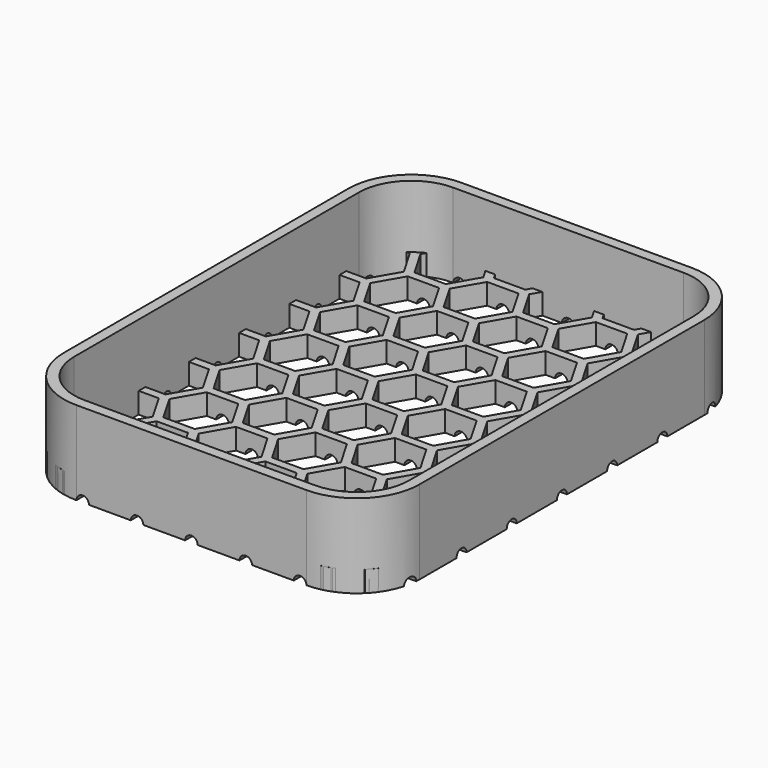
from build123d import *

# Parameters (mm, degrees)
F1_DEPTH      = 5
F3_DEPTH      = 25
F4_DEPTH      = 20
F5_T          = -2.5
F6_R          = 1.5
F7_DEPTH      = 80
F7_DEPTH_BACK = 80
F8_R          = 1.5
F9_DEPTH      = 60
F9_DEPTH_BACK = 60


with BuildPart() as f1:
    # F0 (on Top) → F1 (new body)
    with BuildSketch(Plane.XY):
        with BuildLine():
            ThreePointArc((42.5, 42.5), (38.1066017178, 53.1066017178), (27.5, 57.5))
            Line((27.5, 57.5), (-27.5, 57.5))
            ThreePointArc((-27.5, 57.5), (-38.1066017178, 53.1066017178), (-42.5, 42.5))
            Line((-42.5, 42.5), (-42.5, -42.5))
            ThreePointArc((-42.5, -42.5), (-38.1066017178, -53.1066017178), (-27.5, -57.5))
            Line((-27.5, -57.5), (27.5, -57.5))
            ThreePointArc((27.5, -57.5), (38.1066017178, -53.1066017178), (42.5, -42.5))
            Line((42.5, -42.5), (42.5, 42.5))
        make_face()
    extrude(amount=F1_DEPTH)

    # F2 (on Top) → F3 (cut)
    with BuildSketch(Plane.XY):
        Polygon((3.7499989252, -58.7181099653), (7.4999989252, -52.2229194369), (3.7499989252, -45.7277289086), (-3.7500010748, -45.7277289086), (-7.5000010748, -52.2229194369), (-3.7500010748, -58.7181099653), align=None)
        Polygon((-9.2320518824, -53.2229194369), (-16.7320518824, -53.2229194369), (-20.4820518824, -59.7181099653), (-16.7320518824, -66.2133004937), (-9.2320518824, -66.2133004937), (-5.4820518824, -59.7181099653), align=None)
        Polygon((9.2320497327, -53.2229194369), (5.4820497327, -59.7181099653), (9.2320497327, -66.2133004937), (16.7320497327, -66.2133004937), (20.4820497327, -59.7181099653), (16.7320497327, -53.2229194369), align=None)
        Polygon((33.4640989252, -52.2229194369), (29.7140989252, -45.7277289086), (22.2140989252, -45.7277289086), (18.4640989252, -52.2229194369), (22.2140989252, -58.7181099653), (29.7140989252, -58.7181099653), align=None)
        Polygon((35.1961497327, -66.2133004937), (42.6961497327, -66.2133004937), (46.4461497327, -59.7181099653), (42.6961497327, -53.2229194369), (35.1961497327, -53.2229194369), (31.4461497327, -59.7181099653), align=None)
        Polygon((-42.6961518824, -66.2133004937), (-35.1961518824, -66.2133004937), (-31.4461518824, -59.7181099653), (-35.1961518824, -53.2229194369), (-42.6961518824, -53.2229194369), (-46.4461518824, -59.7181099653), align=None)
        Polygon((-33.4641010748, -52.2229194369), (-29.7141010748, -58.7181099653), (-22.2141010748, -58.7181099653), (-18.4641010748, -52.2229194369), (-22.2141010748, -45.7277289086), (-29.7141010748, -45.7277289086), align=None)
        Polygon((3.7499989252, -30.7373489086), (-3.7500010748, -30.7373489086), (-7.5000010748, -37.2325394369), (-3.7500010748, -43.7277299653), (3.7499989252, -43.7277299653), (7.4999989252, -37.2325394369), align=None)
        Polygon((-16.7320518824, -38.2325394369), (-20.4820518824, -44.7277299653), (-16.7320518824, -51.2229204937), (-9.2320518824, -51.2229204937), (-5.4820518824, -44.7277299653), (-9.2320518824, -38.2325394369), align=None)
        Polygon((42.6961497327, -38.2325394369), (35.1961497327, -38.2325394369), (31.4461497327, -44.7277299653), (35.1961497327, -51.2229204937), (42.6961497327, -51.2229204937), (46.4461497327, -44.7277299653), align=None)
        Polygon((16.7320497327, -38.2325394369), (9.2320497327, -38.2325394369), (5.4820497327, -44.7277299653), (9.2320497327, -51.2229204937), (16.7320497327, -51.2229204937), (20.4820497327, -44.7277299653), align=None)
        Polygon((29.7140989252, -43.7277299653), (33.4640989252, -37.2325394369), (29.7140989252, -30.7373489086), (22.2140989252, -30.7373489086), (18.4640989252, -37.2325394369), (22.2140989252, -43.7277299653), align=None)
        Polygon((-29.7141010748, -43.7277299653), (-22.2141010748, -43.7277299653), (-18.4641010748, -37.2325394369), (-22.2141010748, -30.7373489086), (-29.7141010748, -30.7373489086), (-33.4641010748, -37.2325394369), align=None)
        Polygon((-35.1961518824, -51.2229204937), (-31.4461518824, -44.7277299653), (-35.1961518824, -38.2325394369), (-42.6961518824, -38.2325394369), (-46.4461518824, -44.7277299653), (-42.6961518824, -51.2229204937), align=None)
        Polygon((3.7499989252, -15.7469689086), (-3.7500010748, -15.7469689086), (-7.5000010748, -22.2421594369), (-3.7500010748, -28.7373499653), (3.7499989252, -28.7373499653), (7.4999989252, -22.2421594369), align=None)
        Polygon((-16.7320518824, -23.2421594369), (-20.4820518824, -29.7373499653), (-16.7320518824, -36.2325404937), (-9.2320518824, -36.2325404937), (-5.4820518824, -29.7373499653), (-9.2320518824, -23.2421594369), align=None)
        Polygon((42.6961497327, -23.2421594369), (35.1961497327, -23.2421594369), (31.4461497327, -29.7373499653), (35.1961497327, -36.2325404937), (42.6961497327, -36.2325404937), (46.4461497327, -29.7373499653), align=None)
        Polygon((16.7320497327, -23.2421594369), (9.2320497327, -23.2421594369), (5.4820497327, -29.7373499653), (9.2320497327, -36.2325404937), (16.7320497327, -36.2325404937), (20.4820497327, -29.7373499653), align=None)
        Polygon((29.7140989252, -28.7373499653), (33.4640989252, -22.2421594369), (29.7140989252, -15.7469689086), (22.2140989252, -15.7469689086), (18.4640989252, -22.2421594369), (22.2140989252, -28.7373499653), align=None)
        Polygon((-29.7141010748, -28.7373499653), (-22.2141010748, -28.7373499653), (-18.4641010748, -22.2421594369), (-22.2141010748, -15.7469689086), (-29.7141010748, -15.7469689086), (-33.4641010748, -22.2421594369), align=None)
        Polygon((-35.1961518824, -36.2325404937), (-31.4461518824, -29.7373499653), (-35.1961518824, -23.2421594369), (-42.6961518824, -23.2421594369), (-46.4461518824, -29.7373499653), (-42.6961518824, -36.2325404937), align=None)
        Polygon((3.7499989252, -0.7565889086), (-3.7500010748, -0.7565889086), (-7.5000010748, -7.2517794369), (-3.7500010748, -13.7469699653), (3.7499989252, -13.7469699653), (7.4999989252, -7.2517794369), align=None)
        Polygon((-16.7320518824, -8.2517794369), (-20.4820518824, -14.7469699653), (-16.7320518824, -21.2421604937), (-9.2320518824, -21.2421604937), (-5.4820518824, -14.7469699653), (-9.2320518824, -8.2517794369), align=None)
        Polygon((42.6961497327, -8.2517794369), (35.1961497327, -8.2517794369), (31.4461497327, -14.7469699653), (35.1961497327, -21.2421604937), (42.6961497327, -21.2421604937), (46.4461497327, -14.7469699653), align=None)
        Polygon((16.7320497327, -8.2517794369), (9.2320497327, -8.2517794369), (5.4820497327, -14.7469699653), (9.2320497327, -21.2421604937), (16.7320497327, -21.2421604937), (20.4820497327, -14.7469699653), align=None)
        Polygon((29.7140989252, -13.7469699653), (33.4640989252, -7.2517794369), (29.7140989252, -0.7565889086), (22.2140989252, -0.7565889086), (18.4640989252, -7.2517794369), (22.2140989252, -13.7469699653), align=None)
        Polygon((-29.7141010748, -13.7469699653), (-22.2141010748, -13.7469699653), (-18.4641010748, -7.2517794369), (-22.2141010748, -0.7565889086), (-29.7141010748, -0.7565889086), (-33.4641010748, -7.2517794369), align=None)
        Polygon((-35.1961518824, -21.2421604937), (-31.4461518824, -14.7469699653), (-35.1961518824, -8.2517794369), (-42.6961518824, -8.2517794369), (-46.4461518824, -14.7469699653), (-42.6961518824, -21.2421604937), align=None)
        Polygon((3.7499989252, 14.2337910914), (-3.7500010748, 14.2337910914), (-7.5000010748, 7.7386005631), (-3.7500010748, 1.2434100347), (3.7499989252, 1.2434100347), (7.4999989252, 7.7386005631), align=None)
        Polygon((-16.7320518824, 6.7386005631), (-20.4820518824, 0.2434100347), (-16.7320518824, -6.2517804937), (-9.2320518824, -6.2517804937), (-5.4820518824, 0.2434100347), (-9.2320518824, 6.7386005631), align=None)
        Polygon((42.6961497327, 6.7386005631), (35.1961497327, 6.7386005631), (31.4461497327, 0.2434100347), (35.1961497327, -6.2517804937), (42.6961497327, -6.2517804937), (46.4461497327, 0.2434100347), align=None)
        Polygon((16.7320497327, 6.7386005631), (9.2320497327, 6.7386005631), (5.4820497327, 0.2434100347), (9.2320497327, -6.2517804937), (16.7320497327, -6.2517804937), (20.4820497327, 0.2434100347), align=None)
        Polygon((29.7140989252, 1.2434100347), (33.4640989252, 7.7386005631), (29.7140989252, 14.2337910914), (22.2140989252, 14.2337910914), (18.4640989252, 7.7386005631), (22.2140989252, 1.2434100347), align=None)
        Polygon((-29.7141010748, 1.2434100347), (-22.2141010748, 1.2434100347), (-18.4641010748, 7.7386005631), (-22.2141010748, 14.2337910914), (-29.7141010748, 14.2337910914), (-33.4641010748, 7.7386005631), align=None)
        Polygon((-35.1961518824, -6.2517804937), (-31.4461518824, 0.2434100347), (-35.1961518824, 6.7386005631), (-42.6961518824, 6.7386005631), (-46.4461518824, 0.2434100347), (-42.6961518824, -6.2517804937), align=None)
        Polygon((3.7499989252, 29.2241710914), (-3.7500010748, 29.2241710914), (-7.5000010748, 22.7289805631), (-3.7500010748, 16.2337900347), (3.7499989252, 16.2337900347), (7.4999989252, 22.7289805631), align=None)
        Polygon((-16.7320518824, 21.7289805631), (-20.4820518824, 15.2337900347), (-16.7320518824, 8.7385995063), (-9.2320518824, 8.7385995063), (-5.4820518824, 15.2337900347), (-9.2320518824, 21.7289805631), align=None)
        Polygon((42.6961497327, 21.7289805631), (35.1961497327, 21.7289805631), (31.4461497327, 15.2337900347), (35.1961497327, 8.7385995063), (42.6961497327, 8.7385995063), (46.4461497327, 15.2337900347), align=None)
        Polygon((16.7320497327, 21.7289805631), (9.2320497327, 21.7289805631), (5.4820497327, 15.2337900347), (9.2320497327, 8.7385995063), (16.7320497327, 8.7385995063), (20.4820497327, 15.2337900347), align=None)
        Polygon((29.7140989252, 16.2337900347), (33.4640989252, 22.7289805631), (29.7140989252, 29.2241710914), (22.2140989252, 29.2241710914), (18.4640989252, 22.7289805631), (22.2140989252, 16.2337900347), align=None)
        Polygon((-29.7141010748, 16.2337900347), (-22.2141010748, 16.2337900347), (-18.4641010748, 22.7289805631), (-22.2141010748, 29.2241710914), (-29.7141010748, 29.2241710914), (-33.4641010748, 22.7289805631), align=None)
        Polygon((-35.1961518824, 8.7385995063), (-31.4461518824, 15.2337900347), (-35.1961518824, 21.7289805631), (-42.6961518824, 21.7289805631), (-46.4461518824, 15.2337900347), (-42.6961518824, 8.7385995063), align=None)
        Polygon((3.7499989252, 44.2145510914), (-3.7500010748, 44.2145510914), (-7.5000010748, 37.7193605631), (-3.7500010748, 31.2241700347), (3.7499989252, 31.2241700347), (7.4999989252, 37.7193605631), align=None)
        Polygon((-16.7320518824, 36.7193605631), (-20.4820518824, 30.2241700347), (-16.7320518824, 23.7289795063), (-9.2320518824, 23.7289795063), (-5.4820518824, 30.2241700347), (-9.2320518824, 36.7193605631), align=None)
        Polygon((42.6961497327, 36.7193605631), (35.1961497327, 36.7193605631), (31.4461497327, 30.2241700347), (35.1961497327, 23.7289795063), (42.6961497327, 23.7289795063), (46.4461497327, 30.2241700347), align=None)
        Polygon((16.7320497327, 36.7193605631), (9.2320497327, 36.7193605631), (5.4820497327, 30.2241700347), (9.2320497327, 23.7289795063), (16.7320497327, 23.7289795063), (20.4820497327, 30.2241700347), align=None)
        Polygon((29.7140989252, 31.2241700347), (33.4640989252, 37.7193605631), (29.7140989252, 44.2145510914), (22.2140989252, 44.2145510914), (18.4640989252, 37.7193605631), (22.2140989252, 31.2241700347), align=None)
        Polygon((-29.7141010748, 31.2241700347), (-22.2141010748, 31.2241700347), (-18.4641010748, 37.7193605631), (-22.2141010748, 44.2145510914), (-29.7141010748, 44.2145510914), (-33.4641010748, 37.7193605631), align=None)
        Polygon((-35.1961518824, 23.7289795063), (-31.4461518824, 30.2241700347), (-35.1961518824, 36.7193605631), (-42.6961518824, 36.7193605631), (-46.4461518824, 30.2241700347), (-42.6961518824, 23.7289795063), align=None)
        Polygon((3.7499989252, 59.2049310914), (-3.7500010748, 59.2049310914), (-7.5000010748, 52.7097405631), (-3.7500010748, 46.2145500347), (3.7499989252, 46.2145500347), (7.4999989252, 52.7097405631), align=None)
        Polygon((-16.7320518824, 51.7097405631), (-20.4820518824, 45.2145500347), (-16.7320518824, 38.7193595063), (-9.2320518824, 38.7193595063), (-5.4820518824, 45.2145500347), (-9.2320518824, 51.7097405631), align=None)
        Polygon((42.6961497327, 51.7097405631), (35.1961497327, 51.7097405631), (31.4461497327, 45.2145500347), (35.1961497327, 38.7193595063), (42.6961497327, 38.7193595063), (46.4461497327, 45.2145500347), align=None)
        Polygon((16.7320497327, 51.7097405631), (9.2320497327, 51.7097405631), (5.4820497327, 45.2145500347), (9.2320497327, 38.7193595063), (16.7320497327, 38.7193595063), (20.4820497327, 45.2145500347), align=None)
        Polygon((29.7140989252, 46.2145500347), (33.4640989252, 52.7097405631), (29.7140989252, 59.2049310914), (22.2140989252, 59.2049310914), (18.4640989252, 52.7097405631), (22.2140989252, 46.2145500347), align=None)
        Polygon((-29.7141010748, 46.2145500347), (-22.2141010748, 46.2145500347), (-18.4641010748, 52.7097405631), (-22.2141010748, 59.2049310914), (-29.7141010748, 59.2049310914), (-33.4641010748, 52.7097405631), align=None)
        Polygon((-35.1961518824, 38.7193595063), (-31.4461518824, 45.2145500347), (-35.1961518824, 51.7097405631), (-42.6961518824, 51.7097405631), (-46.4461518824, 45.2145500347), (-42.6961518824, 38.7193595063), align=None)
        Polygon((3.7499989252, 74.1953110914), (-3.7500010748, 74.1953110914), (-7.5000010748, 67.7001205631), (-3.7500010748, 61.2049300347), (3.7499989252, 61.2049300347), (7.4999989252, 67.7001205631), align=None)
        Polygon((-16.7320518824, 66.7001205631), (-20.4820518824, 60.2049300347), (-16.7320518824, 53.7097395063), (-9.2320518824, 53.7097395063), (-5.4820518824, 60.2049300347), (-9.2320518824, 66.7001205631), align=None)
        Polygon((42.6961497327, 66.7001205631), (35.1961497327, 66.7001205631), (31.4461497327, 60.2049300347), (35.1961497327, 53.7097395063), (42.6961497327, 53.7097395063), (46.4461497327, 60.2049300347), align=None)
        Polygon((16.7320497327, 66.7001205631), (9.2320497327, 66.7001205631), (5.4820497327, 60.2049300347), (9.2320497327, 53.7097395063), (16.7320497327, 53.7097395063), (20.4820497327, 60.2049300347), align=None)
        Polygon((29.7140989252, 61.2049300347), (33.4640989252, 67.7001205631), (29.7140989252, 74.1953110914), (22.2140989252, 74.1953110914), (18.4640989252, 67.7001205631), (22.2140989252, 61.2049300347), align=None)
        Polygon((-29.7141010748, 61.2049300347), (-22.2141010748, 61.2049300347), (-18.4641010748, 67.7001205631), (-22.2141010748, 74.1953110914), (-29.7141010748, 74.1953110914), (-33.4641010748, 67.7001205631), align=None)
        Polygon((-35.1961518824, 53.7097395063), (-31.4461518824, 60.2049300347), (-35.1961518824, 66.7001205631), (-42.6961518824, 66.7001205631), (-46.4461518824, 60.2049300347), (-42.6961518824, 53.7097395063), align=None)
    extrude(amount=F3_DEPTH, mode=Mode.SUBTRACT)


with BuildPart() as f4:
    # F0 (on Top) → F4 (new body)
    with BuildSketch(Plane.XY):
        with BuildLine():
            ThreePointArc((42.5, 42.5), (38.1066017178, 53.1066017178), (27.5, 57.5))
            Line((27.5, 57.5), (-27.5, 57.5))
            ThreePointArc((-27.5, 57.5), (-38.1066017178, 53.1066017178), (-42.5, 42.5))
            Line((-42.5, 42.5), (-42.5, -42.5))
            ThreePointArc((-42.5, -42.5), (-38.1066017178, -53.1066017178), (-27.5, -57.5))
            Line((-27.5, -57.5), (27.5, -57.5))
            ThreePointArc((27.5, -57.5), (38.1066017178, -53.1066017178), (42.5, -42.5))
            Line((42.5, -42.5), (42.5, 42.5))
        make_face()
    extrude(amount=F4_DEPTH)

    # F5
    f5_openings = [f4.faces().sort_by_distance(p)[0] for p in [
        (0, 0, 20),
        (0, 0, 0),
    ]]
    offset(amount=F5_T, openings=f5_openings)


with BuildPart() as f7_tool:
    # F6 (on Front) → F7 (new body, two sides)
    with BuildSketch(Plane.XZ) as f7_sk:
        Circle(F6_R)
        with Locations((12.98205, 0)):
            Circle(F6_R)
        with Locations((-12.98205, 0)):
            Circle(F6_R)
        with Locations((-25.9641, 0)):
            Circle(F6_R)
        with Locations((25.9641, 0)):
            Circle(F6_R)
    extrude(amount=-F7_DEPTH)
    extrude(f7_sk.sketch, amount=F7_DEPTH_BACK)


with BuildPart() as f1_1:
    add(f1.part)

    # F7: cut by f7_tool
    add(f7_tool.part, mode=Mode.SUBTRACT)


with BuildPart() as f4_1:
    add(f4.part)

    # F7: cut by f7_tool
    add(f7_tool.part, mode=Mode.SUBTRACT)

    # F8 (on Right) → F9 (cut, two sides)
    with BuildSketch(Plane.YZ) as f9_sk:
        Circle(F8_R)
        with Locations((-14.99038, 0)):
            Circle(F8_R)
        with Locations((-29.98076, 0)):
            Circle(F8_R)
        with Locations((-44.97114, 0)):
            Circle(F8_R)
        with Locations((14.99038, 0)):
            Circle(F8_R)
        with Locations((29.98076, 0)):
            Circle(F8_R)
        with Locations((44.97114, 0)):
            Circle(F8_R)
    extrude(amount=-F9_DEPTH, mode=Mode.SUBTRACT)
    extrude(f9_sk.sketch, amount=F9_DEPTH_BACK, mode=Mode.SUBTRACT)


solid = Compound([f1_1.part, f4_1.part])
